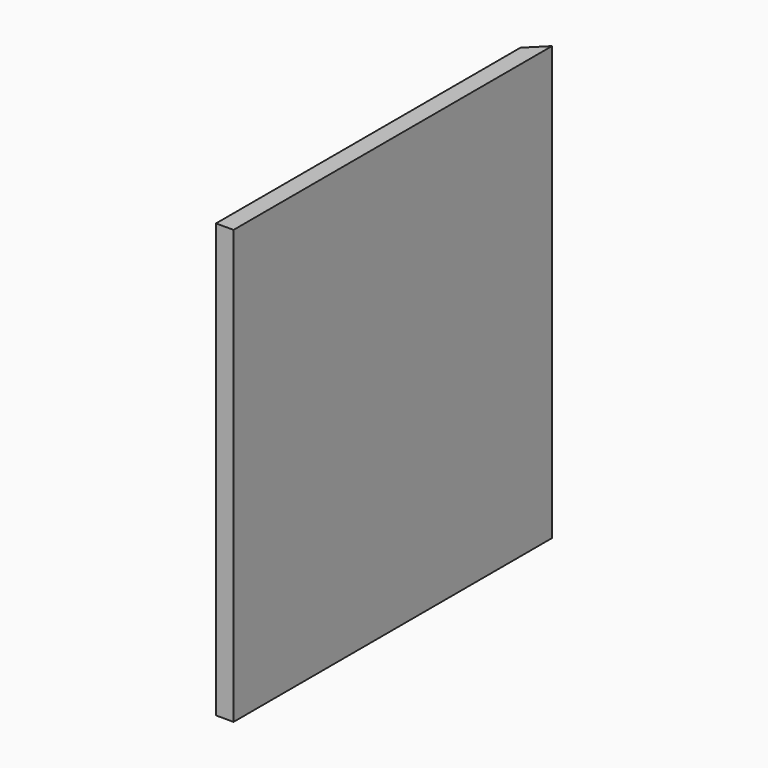
from build123d import *

# Parameters (mm, degrees)
F0_W     = 431.8
F0_H     = 469.9
F1_DEPTH = 19.05
F3_DEPTH = 469.901


with BuildPart() as f1:
    # F0 (on Right) → F1 (new body)
    with BuildSketch(Plane.YZ):
        Rectangle(F0_W, F0_H)
    extrude(amount=F1_DEPTH)

    # F2 (on face) → F3 (cut, through all)
    with BuildSketch(Plane.XY.offset(234.95)):
        Polygon((0, 196.85), (19.05, 215.9), (0, 215.9), align=None)
    extrude(amount=-F3_DEPTH, mode=Mode.SUBTRACT)


solid = f1.part
